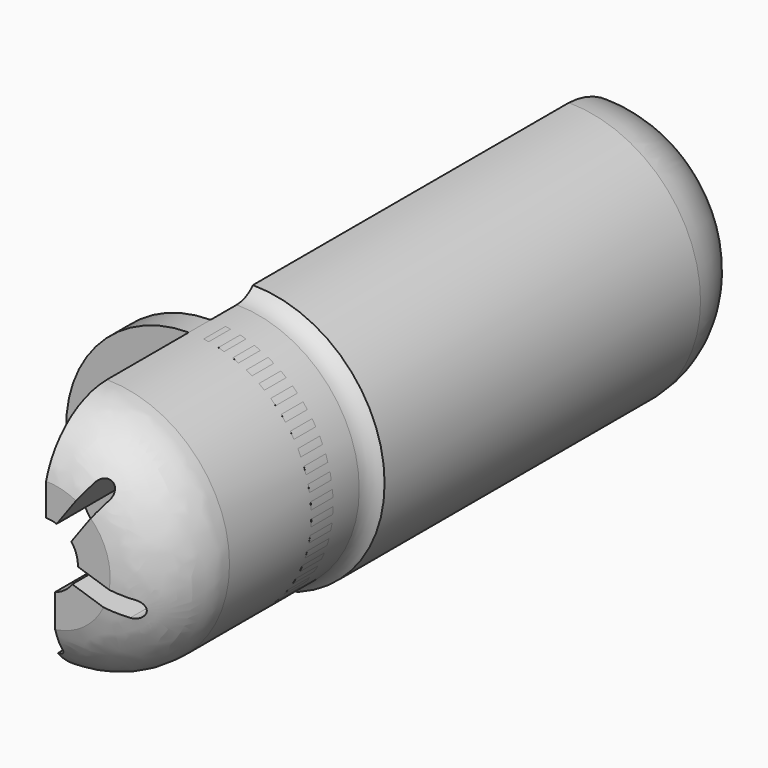
from build123d import *

# Parameters (mm, degrees)
F4_ANGLE  = 180
F6_DEPTH  = 90
F8_COUNT  = 5
F12_START = -20
F11_R     = 13.4913344195
F12_DEPTH = 3


with BuildPart() as f4:
    # F3 (on Right) → F4 (revolve)
    with BuildSketch(Plane.YZ):
        with BuildLine():
            Line((0.3716222048, 20.884835436), (81.3056033368, 20.884835436))
            ThreePointArc((81.3056033368, 20.884835436), (79.2480851868, 28.3977219469), (72.2783456923, 31.8761664331))
            Line((72.2783456923, 31.8761664331), (28.8201148927, 31.8761664331))
            ThreePointArc((28.8201148927, 31.8761664331), (27.8087917866, 31.1375536456), (26.5840469152, 30.8761664331))
            Line((26.5840469152, 30.8761664331), (8.8330505692, 30.8761664331))
            Line((8.8330505692, 30.8761664331), (8.7405150061, 30.8761664331))
            ThreePointArc((8.7405150061, 30.8761664331), (3.470465515, 29.0675325384), (0.3716222048, 24.4370089889))
            Line((0.3716222048, 24.4370089889), (0.3716222048, 20.884835436))
        make_face()
    revolve(axis=Axis((0, 40.3716222048, 17.384835436), (0, 1, 0)), revolution_arc=F4_ANGLE)


with BuildPart() as f6:
    # F5 (on Front) → F6 (new body)
    with BuildSketch(Plane.XZ):
        with BuildLine():
            ThreePointArc((1, 14.0307334698), (0, 13.884835436), (-1, 14.0307334698))
            Line((-1, 14.0307334698), (-1, 8.1346530026))
            ThreePointArc((-1, 8.1346530026), (-0.7071067812, 7.4275462214), (0, 7.1346530026))
            ThreePointArc((0, 7.1346530026), (0.7071067812, 7.4275462214), (1, 8.1346530026))
            Line((1, 8.1346530026), (1, 14.0307334698))
        make_face()
    extrude(amount=-F6_DEPTH)


with BuildPart() as f8_1:
    # F8: instance of F6
    add(f6.part.rotate(Axis((0, 20.536005497, 17.384835436), (0, 1, 0)), 1 * 360 / F8_COUNT))


with BuildPart() as f8_2:
    # F8: instance of F6
    add(f6.part.rotate(Axis((0, 20.536005497, 17.384835436), (0, 1, 0)), 2 * 360 / F8_COUNT))


with BuildPart() as f8_3:
    # F8: instance of F6
    add(f6.part.rotate(Axis((0, 20.536005497, 17.384835436), (0, 1, 0)), 3 * 360 / F8_COUNT))


with BuildPart() as f8_4:
    # F8: instance of F6
    add(f6.part.rotate(Axis((0, 20.536005497, 17.384835436), (0, 1, 0)), 4 * 360 / F8_COUNT))


with BuildPart() as f4_1:
    add(f4.part)

    # F9: cut F6, F8_4, F8_3
    add(f6.part, mode=Mode.SUBTRACT)
    add(f8_4.part, mode=Mode.SUBTRACT)
    add(f8_3.part, mode=Mode.SUBTRACT)


with BuildPart() as f10:
    # F3 (on Right) → F10 (revolve)
    with BuildSketch(Plane.YZ):
        with BuildLine():
            Line((0.3716222048, 20.884835436), (81.3056033368, 20.884835436))
            ThreePointArc((81.3056033368, 20.884835436), (79.2480851868, 28.3977219469), (72.2783456923, 31.8761664331))
            Line((72.2783456923, 31.8761664331), (28.8201148927, 31.8761664331))
            ThreePointArc((28.8201148927, 31.8761664331), (27.8087917866, 31.1375536456), (26.5840469152, 30.8761664331))
            Line((26.5840469152, 30.8761664331), (8.8330505692, 30.8761664331))
            Line((8.8330505692, 30.8761664331), (8.7405150061, 30.8761664331))
            ThreePointArc((8.7405150061, 30.8761664331), (3.470465515, 29.0675325384), (0.3716222048, 24.4370089889))
            Line((0.3716222048, 24.4370089889), (0.3716222048, 20.884835436))
        make_face()
    revolve(axis=Axis((0, 40.3716222048, 17.384835436), (0, 1, 0)))

    # F13: cut F6, F8_4, F8_3, F8_2, F8_1
    add(f6.part, mode=Mode.SUBTRACT)
    add(f8_4.part, mode=Mode.SUBTRACT)
    add(f8_3.part, mode=Mode.SUBTRACT)
    add(f8_2.part, mode=Mode.SUBTRACT)
    add(f8_1.part, mode=Mode.SUBTRACT)


with BuildPart() as f12:
    # F11 (on Front) → F12 (new body)
    with BuildSketch(Plane.XZ.offset(F12_START)):
        with Locations((0, 17.384835436)):
            Circle(F11_R)
    extrude(amount=-F12_DEPTH)


with BuildPart() as f10_1:
    add(f10.part)

    # F14: intersect F12
    add(f12.part, mode=Mode.INTERSECT)


solid = Compound([f4_1.part, f10_1.part])
